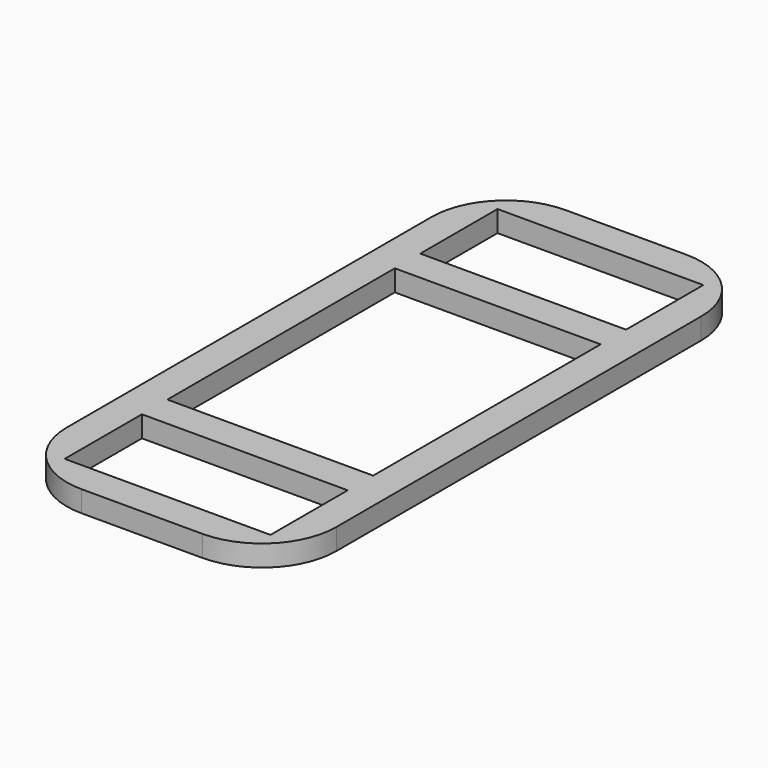
from build123d import *

# Parameters (mm, degrees)
F0_W     = 25.4
F0_H     = 57
F1_DEPTH = 2
F2_W     = 19.4
F2_H     = 9.1
F2_H_2   = 26.8
F3_DEPTH = 2.001
F4_R     = 7


with BuildPart() as f1:
    # F0 (on Top) → F1 (new body)
    with BuildSketch(Plane.XY):
        Rectangle(F0_W, F0_H)
    extrude(amount=F1_DEPTH)

    # F2 (on face) → F3 (cut, through all)
    with BuildSketch(Plane.XY.offset(2)):
        with Locations((0, 20.95)):
            Rectangle(F2_W, F2_H)
        Rectangle(F2_W, F2_H_2)
        with Locations((0, -20.95)):
            Rectangle(F2_W, F2_H)
    extrude(amount=-F3_DEPTH, mode=Mode.SUBTRACT)

    # F4
    f4_edges = [f1.edges().sort_by_distance(p)[0] for p in [
        (12.7, 28.5, 1),
        (12.7, -28.5, 1),
        (-12.7, -28.5, 1),
        (-12.7, 28.5, 1),
    ]]
    fillet(f4_edges, radius=F4_R)


solid = f1.part
